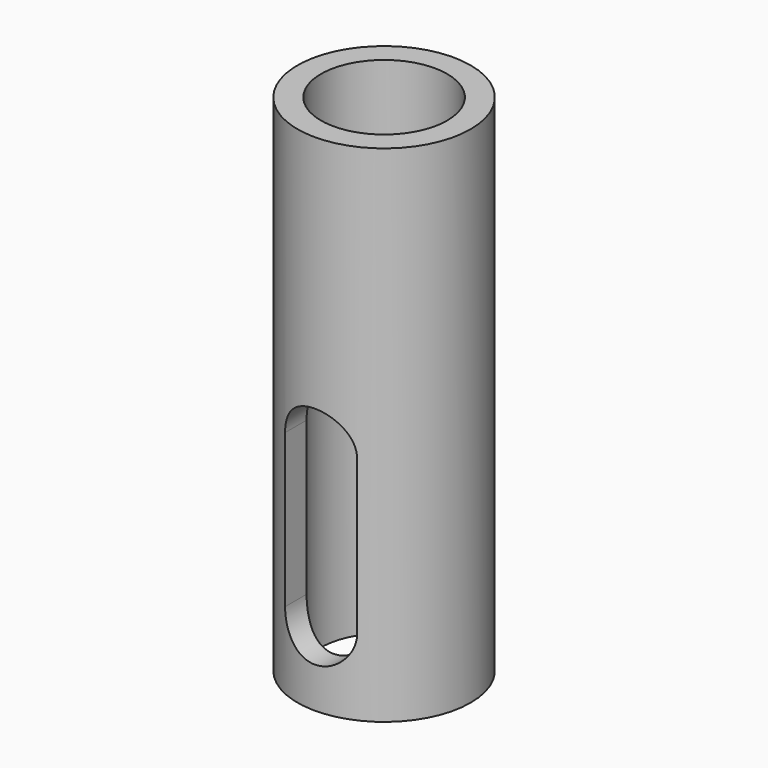
from build123d import *

# Parameters (mm, degrees)
F0_R          = 24
F0_R_2        = 17.5
F1_DEPTH      = 140
F3_DEPTH      = 24.001
F3_DEPTH_BACK = 24.001


with BuildPart() as f1:
    # F0 (on Top) → F1 (new body)
    with BuildSketch(Plane.XY):
        Circle(F0_R)
        Circle(F0_R_2, mode=Mode.SUBTRACT)
    extrude(amount=F1_DEPTH)

    # F2 (on Front) → F3 (cut, two sides)
    with BuildSketch(Plane.XZ) as f3_sk:
        with BuildLine():
            ThreePointArc((-10, 21.25), (0, 11.25), (10, 21.25))
            Line((10, 21.25), (10, 63.75))
            ThreePointArc((10, 63.75), (0, 73.75), (-10, 63.75))
            Line((-10, 63.75), (-10, 21.25))
        make_face()
    extrude(amount=-F3_DEPTH, mode=Mode.SUBTRACT)
    extrude(f3_sk.sketch, amount=F3_DEPTH_BACK, mode=Mode.SUBTRACT)


solid = f1.part
